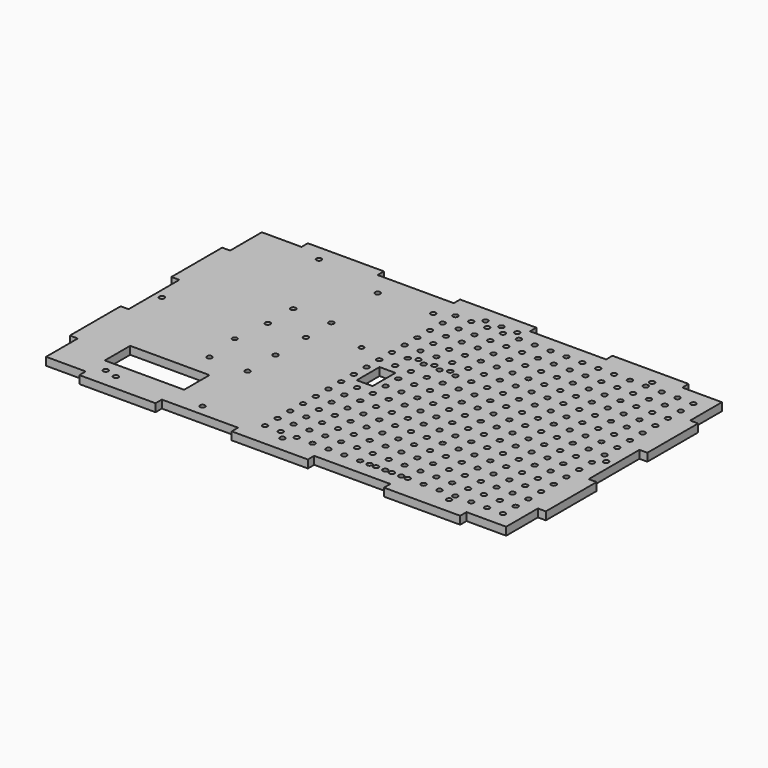
from build123d import *

# Parameters (mm, degrees)
F1_R      = 1.6
F1_W      = 50
F1_H      = 20
F10_DEPTH = 5
F3_R      = 1.6
F4_R      = 1.5
F4_W      = 10
F4_H      = 18
F5_R      = 1.6
F7_R      = 1.6
F8_R      = 1.6
F9_R      = 1.6
F11_DEPTH = 5


with BuildPart() as f10:
    # F1 (on Top) → F10 (new body)
    with BuildSketch(Plane.XY):
        Polygon((-72, 90), (-120, 90), (-120, 85), (-145, 85), (-145, 60), (-150, 60), (-150, 20), (-145, 20), (-145, 0), (-145, -20), (-150, -20), (-150, -60), (-145, -60), (-145, -85), (-120, -85), (-120, -90), (-72, -90), (-72, -85), (-24, -85), (-24, -90), (24, -90), (24, -85), (72, -85), (72, -90), (120, -90), (120, -85), (145, -85), (145, -60), (150, -60), (150, -20), (145, -20), (145, 0), (145, 20), (150, 20), (150, 60), (145, 60), (145, 85), (120, 85), (120, 90), (72, 90), (72, 85), (24, 85), (24, 90), (-24, 90), (-24, 85), (-72, 85), align=None)
        with Locations((-105, -80)):
            Circle(F1_R, mode=Mode.SUBTRACT)
        with Locations((-95, -60)):
            Rectangle(F1_W, F1_H, mode=Mode.SUBTRACT)
        with Locations((-15, -75)):
            Circle(F1_R, mode=Mode.SUBTRACT)
        with Locations((-5, -75)):
            Circle(F1_R, mode=Mode.SUBTRACT)
        with Locations((-15, -65)):
            Circle(F1_R, mode=Mode.SUBTRACT)
        with Locations((-5, -65)):
            Circle(F1_R, mode=Mode.SUBTRACT)
        with Locations((-15, -55)):
            Circle(F1_R, mode=Mode.SUBTRACT)
        with Locations((-5, -55)):
            Circle(F1_R, mode=Mode.SUBTRACT)
        with Locations((-15, -45)):
            Circle(F1_R, mode=Mode.SUBTRACT)
        with Locations((-5, -45)):
            Circle(F1_R, mode=Mode.SUBTRACT)
        with Locations((-15, -35)):
            Circle(F1_R, mode=Mode.SUBTRACT)
        with Locations((-5, -35)):
            Circle(F1_R, mode=Mode.SUBTRACT)
        with Locations((-15, -25)):
            Circle(F1_R, mode=Mode.SUBTRACT)
        with Locations((-5, -25)):
            Circle(F1_R, mode=Mode.SUBTRACT)
        with Locations((-15, -15)):
            Circle(F1_R, mode=Mode.SUBTRACT)
        with Locations((-5, -15)):
            Circle(F1_R, mode=Mode.SUBTRACT)
        with Locations((-15, -5)):
            Circle(F1_R, mode=Mode.SUBTRACT)
        with Locations((0, -80)):
            Circle(F1_R, mode=Mode.SUBTRACT)
        with Locations((5, -75)):
            Circle(F1_R, mode=Mode.SUBTRACT)
        with Locations((15, -75)):
            Circle(F1_R, mode=Mode.SUBTRACT)
        with Locations((25, -75)):
            Circle(F1_R, mode=Mode.SUBTRACT)
        with Locations((35, -75)):
            Circle(F1_R, mode=Mode.SUBTRACT)
        with Locations((45, -75)):
            Circle(F1_R, mode=Mode.SUBTRACT)
        with Locations((55, -75)):
            Circle(F1_R, mode=Mode.SUBTRACT)
        with Locations((65, -75)):
            Circle(F1_R, mode=Mode.SUBTRACT)
        with Locations((5, -65)):
            Circle(F1_R, mode=Mode.SUBTRACT)
        with Locations((15, -65)):
            Circle(F1_R, mode=Mode.SUBTRACT)
        with Locations((25, -65)):
            Circle(F1_R, mode=Mode.SUBTRACT)
        with Locations((35, -65)):
            Circle(F1_R, mode=Mode.SUBTRACT)
        with Locations((5, -55)):
            Circle(F1_R, mode=Mode.SUBTRACT)
        with Locations((15, -55)):
            Circle(F1_R, mode=Mode.SUBTRACT)
        with Locations((25, -55)):
            Circle(F1_R, mode=Mode.SUBTRACT)
        with Locations((35, -55)):
            Circle(F1_R, mode=Mode.SUBTRACT)
        with Locations((45, -65)):
            Circle(F1_R, mode=Mode.SUBTRACT)
        with Locations((55, -65)):
            Circle(F1_R, mode=Mode.SUBTRACT)
        with Locations((65, -65)):
            Circle(F1_R, mode=Mode.SUBTRACT)
        with Locations((45, -55)):
            Circle(F1_R, mode=Mode.SUBTRACT)
        with Locations((55, -55)):
            Circle(F1_R, mode=Mode.SUBTRACT)
        with Locations((65, -55)):
            Circle(F1_R, mode=Mode.SUBTRACT)
        with Locations((105, -80)):
            Circle(F1_R, mode=Mode.SUBTRACT)
        with Locations((75, -75)):
            Circle(F1_R, mode=Mode.SUBTRACT)
        with Locations((85, -75)):
            Circle(F1_R, mode=Mode.SUBTRACT)
        with Locations((95, -75)):
            Circle(F1_R, mode=Mode.SUBTRACT)
        with Locations((105, -75)):
            Circle(F1_R, mode=Mode.SUBTRACT)
        with Locations((115, -75)):
            Circle(F1_R, mode=Mode.SUBTRACT)
        with Locations((125, -75)):
            Circle(F1_R, mode=Mode.SUBTRACT)
        with Locations((135, -75)):
            Circle(F1_R, mode=Mode.SUBTRACT)
        with Locations((75, -65)):
            Circle(F1_R, mode=Mode.SUBTRACT)
        with Locations((85, -65)):
            Circle(F1_R, mode=Mode.SUBTRACT)
        with Locations((95, -65)):
            Circle(F1_R, mode=Mode.SUBTRACT)
        with Locations((105, -65)):
            Circle(F1_R, mode=Mode.SUBTRACT)
        with Locations((75, -55)):
            Circle(F1_R, mode=Mode.SUBTRACT)
        with Locations((85, -55)):
            Circle(F1_R, mode=Mode.SUBTRACT)
        with Locations((95, -55)):
            Circle(F1_R, mode=Mode.SUBTRACT)
        with Locations((105, -55)):
            Circle(F1_R, mode=Mode.SUBTRACT)
        with Locations((115, -65)):
            Circle(F1_R, mode=Mode.SUBTRACT)
        with Locations((125, -65)):
            Circle(F1_R, mode=Mode.SUBTRACT)
        with Locations((135, -65)):
            Circle(F1_R, mode=Mode.SUBTRACT)
        with Locations((115, -55)):
            Circle(F1_R, mode=Mode.SUBTRACT)
        with Locations((125, -55)):
            Circle(F1_R, mode=Mode.SUBTRACT)
        with Locations((135, -55)):
            Circle(F1_R, mode=Mode.SUBTRACT)
        with Locations((5, -45)):
            Circle(F1_R, mode=Mode.SUBTRACT)
        with Locations((15, -45)):
            Circle(F1_R, mode=Mode.SUBTRACT)
        with Locations((5, -35)):
            Circle(F1_R, mode=Mode.SUBTRACT)
        with Locations((15, -35)):
            Circle(F1_R, mode=Mode.SUBTRACT)
        with Locations((25, -45)):
            Circle(F1_R, mode=Mode.SUBTRACT)
        with Locations((35, -45)):
            Circle(F1_R, mode=Mode.SUBTRACT)
        with Locations((25, -35)):
            Circle(F1_R, mode=Mode.SUBTRACT)
        with Locations((35, -35)):
            Circle(F1_R, mode=Mode.SUBTRACT)
        with Locations((5, -25)):
            Circle(F1_R, mode=Mode.SUBTRACT)
        with Locations((15, -25)):
            Circle(F1_R, mode=Mode.SUBTRACT)
        with Locations((25, -25)):
            Circle(F1_R, mode=Mode.SUBTRACT)
        with Locations((35, -25)):
            Circle(F1_R, mode=Mode.SUBTRACT)
        with Locations((45, -45)):
            Circle(F1_R, mode=Mode.SUBTRACT)
        with Locations((55, -45)):
            Circle(F1_R, mode=Mode.SUBTRACT)
        with Locations((45, -35)):
            Circle(F1_R, mode=Mode.SUBTRACT)
        with Locations((55, -35)):
            Circle(F1_R, mode=Mode.SUBTRACT)
        with Locations((65, -45)):
            Circle(F1_R, mode=Mode.SUBTRACT)
        with Locations((65, -35)):
            Circle(F1_R, mode=Mode.SUBTRACT)
        with Locations((45, -25)):
            Circle(F1_R, mode=Mode.SUBTRACT)
        with Locations((55, -25)):
            Circle(F1_R, mode=Mode.SUBTRACT)
        with Locations((65, -25)):
            Circle(F1_R, mode=Mode.SUBTRACT)
        with Locations((5, -15)):
            Circle(F1_R, mode=Mode.SUBTRACT)
        with Locations((15, -15)):
            Circle(F1_R, mode=Mode.SUBTRACT)
        with Locations((25, -15)):
            Circle(F1_R, mode=Mode.SUBTRACT)
        with Locations((35, -15)):
            Circle(F1_R, mode=Mode.SUBTRACT)
        with Locations((5, -5)):
            Circle(F1_R, mode=Mode.SUBTRACT)
        with Locations((15, -5)):
            Circle(F1_R, mode=Mode.SUBTRACT)
        with Locations((25, -5)):
            Circle(F1_R, mode=Mode.SUBTRACT)
        with Locations((35, -5)):
            Circle(F1_R, mode=Mode.SUBTRACT)
        with Locations((45, -15)):
            Circle(F1_R, mode=Mode.SUBTRACT)
        with Locations((55, -15)):
            Circle(F1_R, mode=Mode.SUBTRACT)
        with Locations((65, -15)):
            Circle(F1_R, mode=Mode.SUBTRACT)
        with Locations((45, -5)):
            Circle(F1_R, mode=Mode.SUBTRACT)
        with Locations((55, -5)):
            Circle(F1_R, mode=Mode.SUBTRACT)
        with Locations((65, -5)):
            Circle(F1_R, mode=Mode.SUBTRACT)
        with Locations((75, -45)):
            Circle(F1_R, mode=Mode.SUBTRACT)
        with Locations((85, -45)):
            Circle(F1_R, mode=Mode.SUBTRACT)
        with Locations((75, -35)):
            Circle(F1_R, mode=Mode.SUBTRACT)
        with Locations((85, -35)):
            Circle(F1_R, mode=Mode.SUBTRACT)
        with Locations((95, -45)):
            Circle(F1_R, mode=Mode.SUBTRACT)
        with Locations((105, -45)):
            Circle(F1_R, mode=Mode.SUBTRACT)
        with Locations((95, -35)):
            Circle(F1_R, mode=Mode.SUBTRACT)
        with Locations((105, -35)):
            Circle(F1_R, mode=Mode.SUBTRACT)
        with Locations((75, -25)):
            Circle(F1_R, mode=Mode.SUBTRACT)
        with Locations((85, -25)):
            Circle(F1_R, mode=Mode.SUBTRACT)
        with Locations((95, -25)):
            Circle(F1_R, mode=Mode.SUBTRACT)
        with Locations((105, -25)):
            Circle(F1_R, mode=Mode.SUBTRACT)
        with Locations((115, -45)):
            Circle(F1_R, mode=Mode.SUBTRACT)
        with Locations((125, -45)):
            Circle(F1_R, mode=Mode.SUBTRACT)
        with Locations((115, -35)):
            Circle(F1_R, mode=Mode.SUBTRACT)
        with Locations((125, -35)):
            Circle(F1_R, mode=Mode.SUBTRACT)
        with Locations((135, -45)):
            Circle(F1_R, mode=Mode.SUBTRACT)
        with Locations((135, -35)):
            Circle(F1_R, mode=Mode.SUBTRACT)
        with Locations((115, -25)):
            Circle(F1_R, mode=Mode.SUBTRACT)
        with Locations((125, -25)):
            Circle(F1_R, mode=Mode.SUBTRACT)
        with Locations((135, -25)):
            Circle(F1_R, mode=Mode.SUBTRACT)
        with Locations((75, -15)):
            Circle(F1_R, mode=Mode.SUBTRACT)
        with Locations((85, -15)):
            Circle(F1_R, mode=Mode.SUBTRACT)
        with Locations((95, -15)):
            Circle(F1_R, mode=Mode.SUBTRACT)
        with Locations((105, -15)):
            Circle(F1_R, mode=Mode.SUBTRACT)
        with Locations((75, -5)):
            Circle(F1_R, mode=Mode.SUBTRACT)
        with Locations((85, -5)):
            Circle(F1_R, mode=Mode.SUBTRACT)
        with Locations((95, -5)):
            Circle(F1_R, mode=Mode.SUBTRACT)
        with Locations((105, -5)):
            Circle(F1_R, mode=Mode.SUBTRACT)
        with Locations((115, -15)):
            Circle(F1_R, mode=Mode.SUBTRACT)
        with Locations((125, -15)):
            Circle(F1_R, mode=Mode.SUBTRACT)
        with Locations((135, -15)):
            Circle(F1_R, mode=Mode.SUBTRACT)
        with Locations((115, -5)):
            Circle(F1_R, mode=Mode.SUBTRACT)
        with Locations((125, -5)):
            Circle(F1_R, mode=Mode.SUBTRACT)
        with Locations((135, -5)):
            Circle(F1_R, mode=Mode.SUBTRACT)
        with Locations((-140, 0)):
            Circle(F1_R, mode=Mode.SUBTRACT)
        with Locations((-15, 5)):
            Circle(F1_R, mode=Mode.SUBTRACT)
        with Locations((-15, 15)):
            Circle(F1_R, mode=Mode.SUBTRACT)
        with Locations((-5, 15)):
            Circle(F1_R, mode=Mode.SUBTRACT)
        with Locations((-15, 25)):
            Circle(F1_R, mode=Mode.SUBTRACT)
        with Locations((-5, 25)):
            Circle(F1_R, mode=Mode.SUBTRACT)
        with Locations((-15, 35)):
            Circle(F1_R, mode=Mode.SUBTRACT)
        with Locations((-5, 35)):
            Circle(F1_R, mode=Mode.SUBTRACT)
        with Locations((-105, 80)):
            Circle(F1_R, mode=Mode.SUBTRACT)
        with Locations((-15, 45)):
            Circle(F1_R, mode=Mode.SUBTRACT)
        with Locations((-5, 45)):
            Circle(F1_R, mode=Mode.SUBTRACT)
        with Locations((-15, 55)):
            Circle(F1_R, mode=Mode.SUBTRACT)
        with Locations((-5, 55)):
            Circle(F1_R, mode=Mode.SUBTRACT)
        with Locations((-15, 65)):
            Circle(F1_R, mode=Mode.SUBTRACT)
        with Locations((-5, 65)):
            Circle(F1_R, mode=Mode.SUBTRACT)
        with Locations((-15, 75)):
            Circle(F1_R, mode=Mode.SUBTRACT)
        with Locations((-5, 75)):
            Circle(F1_R, mode=Mode.SUBTRACT)
        with Locations((5, 5)):
            Circle(F1_R, mode=Mode.SUBTRACT)
        with Locations((15, 5)):
            Circle(F1_R, mode=Mode.SUBTRACT)
        with Locations((25, 5)):
            Circle(F1_R, mode=Mode.SUBTRACT)
        with Locations((35, 5)):
            Circle(F1_R, mode=Mode.SUBTRACT)
        with Locations((5, 15)):
            Circle(F1_R, mode=Mode.SUBTRACT)
        with Locations((15, 15)):
            Circle(F1_R, mode=Mode.SUBTRACT)
        with Locations((25, 15)):
            Circle(F1_R, mode=Mode.SUBTRACT)
        with Locations((35, 15)):
            Circle(F1_R, mode=Mode.SUBTRACT)
        with Locations((45, 5)):
            Circle(F1_R, mode=Mode.SUBTRACT)
        with Locations((55, 5)):
            Circle(F1_R, mode=Mode.SUBTRACT)
        with Locations((65, 5)):
            Circle(F1_R, mode=Mode.SUBTRACT)
        with Locations((45, 15)):
            Circle(F1_R, mode=Mode.SUBTRACT)
        with Locations((55, 15)):
            Circle(F1_R, mode=Mode.SUBTRACT)
        with Locations((65, 15)):
            Circle(F1_R, mode=Mode.SUBTRACT)
        with Locations((5, 25)):
            Circle(F1_R, mode=Mode.SUBTRACT)
        with Locations((15, 25)):
            Circle(F1_R, mode=Mode.SUBTRACT)
        with Locations((25, 25)):
            Circle(F1_R, mode=Mode.SUBTRACT)
        with Locations((35, 25)):
            Circle(F1_R, mode=Mode.SUBTRACT)
        with Locations((5, 35)):
            Circle(F1_R, mode=Mode.SUBTRACT)
        with Locations((15, 35)):
            Circle(F1_R, mode=Mode.SUBTRACT)
        with Locations((25, 35)):
            Circle(F1_R, mode=Mode.SUBTRACT)
        with Locations((35, 35)):
            Circle(F1_R, mode=Mode.SUBTRACT)
        with Locations((45, 25)):
            Circle(F1_R, mode=Mode.SUBTRACT)
        with Locations((55, 25)):
            Circle(F1_R, mode=Mode.SUBTRACT)
        with Locations((65, 25)):
            Circle(F1_R, mode=Mode.SUBTRACT)
        with Locations((45, 35)):
            Circle(F1_R, mode=Mode.SUBTRACT)
        with Locations((55, 35)):
            Circle(F1_R, mode=Mode.SUBTRACT)
        with Locations((65, 35)):
            Circle(F1_R, mode=Mode.SUBTRACT)
        with Locations((75, 5)):
            Circle(F1_R, mode=Mode.SUBTRACT)
        with Locations((85, 5)):
            Circle(F1_R, mode=Mode.SUBTRACT)
        with Locations((95, 5)):
            Circle(F1_R, mode=Mode.SUBTRACT)
        with Locations((105, 5)):
            Circle(F1_R, mode=Mode.SUBTRACT)
        with Locations((75, 15)):
            Circle(F1_R, mode=Mode.SUBTRACT)
        with Locations((85, 15)):
            Circle(F1_R, mode=Mode.SUBTRACT)
        with Locations((95, 15)):
            Circle(F1_R, mode=Mode.SUBTRACT)
        with Locations((105, 15)):
            Circle(F1_R, mode=Mode.SUBTRACT)
        with Locations((115, 5)):
            Circle(F1_R, mode=Mode.SUBTRACT)
        with Locations((125, 5)):
            Circle(F1_R, mode=Mode.SUBTRACT)
        with Locations((140, 0)):
            Circle(F1_R, mode=Mode.SUBTRACT)
        with Locations((135, 5)):
            Circle(F1_R, mode=Mode.SUBTRACT)
        with Locations((115, 15)):
            Circle(F1_R, mode=Mode.SUBTRACT)
        with Locations((125, 15)):
            Circle(F1_R, mode=Mode.SUBTRACT)
        with Locations((135, 15)):
            Circle(F1_R, mode=Mode.SUBTRACT)
        with Locations((75, 25)):
            Circle(F1_R, mode=Mode.SUBTRACT)
        with Locations((85, 25)):
            Circle(F1_R, mode=Mode.SUBTRACT)
        with Locations((95, 25)):
            Circle(F1_R, mode=Mode.SUBTRACT)
        with Locations((105, 25)):
            Circle(F1_R, mode=Mode.SUBTRACT)
        with Locations((75, 35)):
            Circle(F1_R, mode=Mode.SUBTRACT)
        with Locations((85, 35)):
            Circle(F1_R, mode=Mode.SUBTRACT)
        with Locations((95, 35)):
            Circle(F1_R, mode=Mode.SUBTRACT)
        with Locations((105, 35)):
            Circle(F1_R, mode=Mode.SUBTRACT)
        with Locations((115, 25)):
            Circle(F1_R, mode=Mode.SUBTRACT)
        with Locations((125, 25)):
            Circle(F1_R, mode=Mode.SUBTRACT)
        with Locations((135, 25)):
            Circle(F1_R, mode=Mode.SUBTRACT)
        with Locations((115, 35)):
            Circle(F1_R, mode=Mode.SUBTRACT)
        with Locations((125, 35)):
            Circle(F1_R, mode=Mode.SUBTRACT)
        with Locations((135, 35)):
            Circle(F1_R, mode=Mode.SUBTRACT)
        with Locations((5, 45)):
            Circle(F1_R, mode=Mode.SUBTRACT)
        with Locations((15, 45)):
            Circle(F1_R, mode=Mode.SUBTRACT)
        with Locations((5, 55)):
            Circle(F1_R, mode=Mode.SUBTRACT)
        with Locations((15, 55)):
            Circle(F1_R, mode=Mode.SUBTRACT)
        with Locations((25, 45)):
            Circle(F1_R, mode=Mode.SUBTRACT)
        with Locations((35, 45)):
            Circle(F1_R, mode=Mode.SUBTRACT)
        with Locations((25, 55)):
            Circle(F1_R, mode=Mode.SUBTRACT)
        with Locations((35, 55)):
            Circle(F1_R, mode=Mode.SUBTRACT)
        with Locations((5, 65)):
            Circle(F1_R, mode=Mode.SUBTRACT)
        with Locations((15, 65)):
            Circle(F1_R, mode=Mode.SUBTRACT)
        with Locations((25, 65)):
            Circle(F1_R, mode=Mode.SUBTRACT)
        with Locations((35, 65)):
            Circle(F1_R, mode=Mode.SUBTRACT)
        with Locations((45, 45)):
            Circle(F1_R, mode=Mode.SUBTRACT)
        with Locations((55, 45)):
            Circle(F1_R, mode=Mode.SUBTRACT)
        with Locations((45, 55)):
            Circle(F1_R, mode=Mode.SUBTRACT)
        with Locations((55, 55)):
            Circle(F1_R, mode=Mode.SUBTRACT)
        with Locations((65, 45)):
            Circle(F1_R, mode=Mode.SUBTRACT)
        with Locations((65, 55)):
            Circle(F1_R, mode=Mode.SUBTRACT)
        with Locations((45, 65)):
            Circle(F1_R, mode=Mode.SUBTRACT)
        with Locations((55, 65)):
            Circle(F1_R, mode=Mode.SUBTRACT)
        with Locations((65, 65)):
            Circle(F1_R, mode=Mode.SUBTRACT)
        with Locations((5, 75)):
            Circle(F1_R, mode=Mode.SUBTRACT)
        with Locations((15, 75)):
            Circle(F1_R, mode=Mode.SUBTRACT)
        with Locations((25, 75)):
            Circle(F1_R, mode=Mode.SUBTRACT)
        with Locations((35, 75)):
            Circle(F1_R, mode=Mode.SUBTRACT)
        with Locations((0, 80)):
            Circle(F1_R, mode=Mode.SUBTRACT)
        with Locations((45, 75)):
            Circle(F1_R, mode=Mode.SUBTRACT)
        with Locations((55, 75)):
            Circle(F1_R, mode=Mode.SUBTRACT)
        with Locations((65, 75)):
            Circle(F1_R, mode=Mode.SUBTRACT)
        with Locations((75, 45)):
            Circle(F1_R, mode=Mode.SUBTRACT)
        with Locations((85, 45)):
            Circle(F1_R, mode=Mode.SUBTRACT)
        with Locations((75, 55)):
            Circle(F1_R, mode=Mode.SUBTRACT)
        with Locations((85, 55)):
            Circle(F1_R, mode=Mode.SUBTRACT)
        with Locations((95, 45)):
            Circle(F1_R, mode=Mode.SUBTRACT)
        with Locations((105, 45)):
            Circle(F1_R, mode=Mode.SUBTRACT)
        with Locations((95, 55)):
            Circle(F1_R, mode=Mode.SUBTRACT)
        with Locations((105, 55)):
            Circle(F1_R, mode=Mode.SUBTRACT)
        with Locations((75, 65)):
            Circle(F1_R, mode=Mode.SUBTRACT)
        with Locations((85, 65)):
            Circle(F1_R, mode=Mode.SUBTRACT)
        with Locations((95, 65)):
            Circle(F1_R, mode=Mode.SUBTRACT)
        with Locations((105, 65)):
            Circle(F1_R, mode=Mode.SUBTRACT)
        with Locations((115, 45)):
            Circle(F1_R, mode=Mode.SUBTRACT)
        with Locations((125, 45)):
            Circle(F1_R, mode=Mode.SUBTRACT)
        with Locations((115, 55)):
            Circle(F1_R, mode=Mode.SUBTRACT)
        with Locations((125, 55)):
            Circle(F1_R, mode=Mode.SUBTRACT)
        with Locations((135, 45)):
            Circle(F1_R, mode=Mode.SUBTRACT)
        with Locations((135, 55)):
            Circle(F1_R, mode=Mode.SUBTRACT)
        with Locations((115, 65)):
            Circle(F1_R, mode=Mode.SUBTRACT)
        with Locations((125, 65)):
            Circle(F1_R, mode=Mode.SUBTRACT)
        with Locations((135, 65)):
            Circle(F1_R, mode=Mode.SUBTRACT)
        with Locations((75, 75)):
            Circle(F1_R, mode=Mode.SUBTRACT)
        with Locations((85, 75)):
            Circle(F1_R, mode=Mode.SUBTRACT)
        with Locations((95, 75)):
            Circle(F1_R, mode=Mode.SUBTRACT)
        with Locations((105, 75)):
            Circle(F1_R, mode=Mode.SUBTRACT)
        with Locations((105, 80)):
            Circle(F1_R, mode=Mode.SUBTRACT)
        with Locations((115, 75)):
            Circle(F1_R, mode=Mode.SUBTRACT)
        with Locations((125, 75)):
            Circle(F1_R, mode=Mode.SUBTRACT)
        with Locations((135, 75)):
            Circle(F1_R, mode=Mode.SUBTRACT)
    extrude(amount=F10_DEPTH)

    # F3 (on face) + F4 (on face) + F5 (on face) + F7 (on face) + F8 (on face) + F9 (on face) → F11 (cut)
    with BuildSketch(Plane.XY):
        with Locations((-113, -78)):
            Circle(F3_R)
        with Locations((-52, -78)):
            Circle(F3_R)
    with BuildSketch(Plane.XY):
        with Locations((-84.5, -12)):
            Circle(F4_R)
        with Locations((-30, 19.75)):
            Circle(F4_R)
        with Locations((-5, 0)):
            Rectangle(F4_W, F4_H)
    with BuildSketch(Plane.XY):
        with Locations((-82, 11)):
            Circle(F5_R)
        with Locations((-58, 11)):
            Circle(F5_R)
        with Locations((-58, 31)):
            Circle(F5_R)
        with Locations((-82, 31)):
            Circle(F5_R)
        with Locations((-58, -35)):
            Circle(F5_R)
        with Locations((-82, -35)):
            Circle(F5_R)
        with Locations((-58, -13)):
            Circle(F5_R)
    with BuildSketch(Plane.XY):
        with Locations((-60, 70)):
            Circle(F7_R)
        with Locations((-25, 70.021515)):
            Circle(F7_R)
    with BuildSketch(Plane.XY):
        with Locations((10, 80)):
            Circle(F8_R)
        with Locations((10, 27.2)):
            Circle(F8_R)
        with Locations((20, 80)):
            Circle(F8_R)
        with Locations((20, 27.2)):
            Circle(F8_R)
        with Locations((0, 27.2)):
            Circle(F8_R)
    with BuildSketch(Plane.XY):
        with Locations((15, -75)):
            Circle(F9_R)
        with Locations((70.88, -75)):
            Circle(F9_R)
        with Locations((60.88, -75)):
            Circle(F9_R)
        with Locations((50.88, -75)):
            Circle(F9_R)
    extrude(amount=F11_DEPTH, mode=Mode.SUBTRACT)


solid = f10.part
